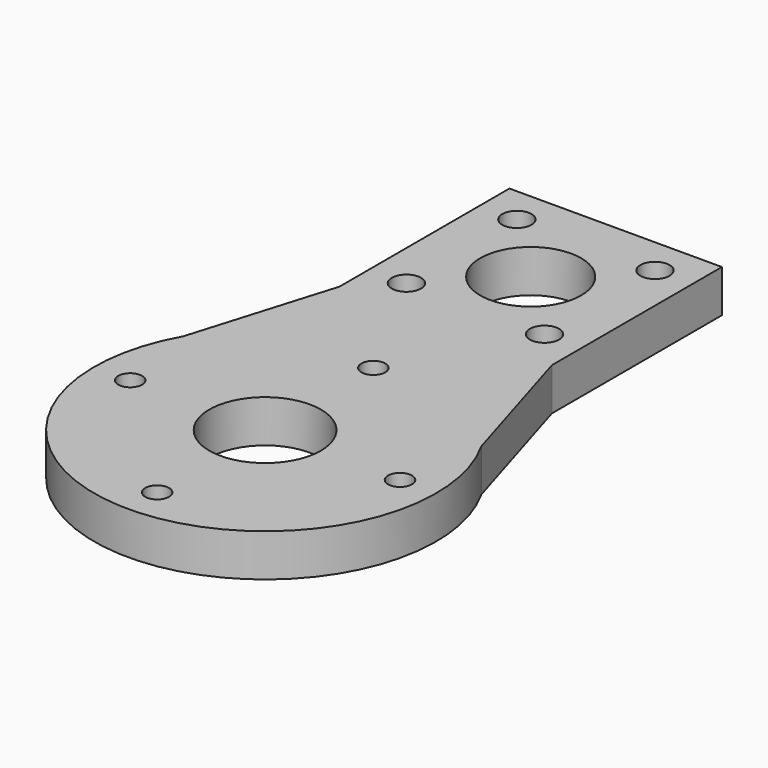
from build123d import *

# Parameters (mm, degrees)
F0_R     = 2.25
F0_R_2   = 10.5
F0_R_3   = 2.75
F0_R_4   = 9.5
F1_DEPTH = 8


with BuildPart() as f1:
    # F0 (on Top) → F1 (new body)
    with BuildSketch(Plane.XY):
        with BuildLine():
            Line((20, -20), (20, 20))
            Line((20, 20), (-20, 20))
            Line((-20, 20), (-20, -20))
            Line((-20, -20), (-28.047054, -46.682202))
            ThreePointArc((-28.047054, -46.682202), (0, -94.7), (28.047054, -46.682202))
            Line((28.047054, -46.682202), (20, -20))
        make_face()
        with Locations((-25.4, -62.5)):
            Circle(F0_R, mode=Mode.SUBTRACT)
        with Locations((0, -87.9)):
            Circle(F0_R, mode=Mode.SUBTRACT)
        with Locations((0, -62.5)):
            Circle(F0_R_2, mode=Mode.SUBTRACT)
        with Locations((25.4, -62.5)):
            Circle(F0_R, mode=Mode.SUBTRACT)
        with Locations((-13, -13)):
            Circle(F0_R_3, mode=Mode.SUBTRACT)
        with Locations((-13, 13)):
            Circle(F0_R_3, mode=Mode.SUBTRACT)
        with Locations((0.054191, -37.100058)):
            Circle(F0_R, mode=Mode.SUBTRACT)
        with Locations((13, -13)):
            Circle(F0_R_3, mode=Mode.SUBTRACT)
        Circle(F0_R_4, mode=Mode.SUBTRACT)
        with Locations((13, 13)):
            Circle(F0_R_3, mode=Mode.SUBTRACT)
    extrude(amount=F1_DEPTH)


solid = f1.part
